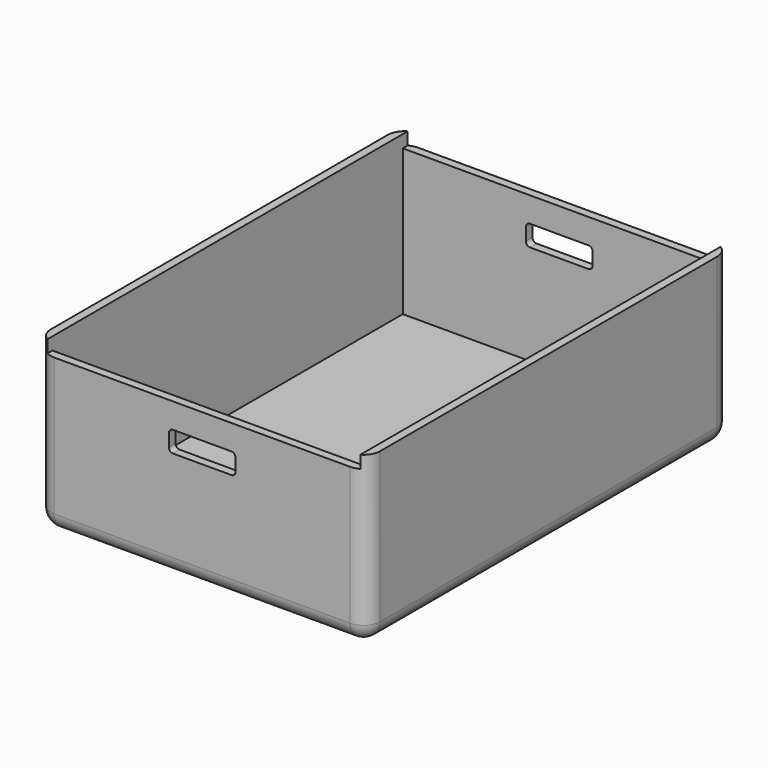
from build123d import *

# Parameters (mm, degrees)
F0_W     = 37.5
F0_H     = 52.5
F1_DEPTH = 1
F0_H_2   = 1
F2_DEPTH = 18.5
F4_DEPTH = 60
F5_DEPTH = 20
F6_R     = 2
F7_R     = 2


with BuildPart() as f1:
    # F0 (on Top) → F1 (new body)
    with BuildSketch(Plane.XY):
        Rectangle(F0_W, F0_H)
    extrude(amount=F1_DEPTH)

    # F0 (on Top) → F2 (join)
    with BuildSketch(Plane.XY):
        with Locations((0, 26.75)):
            Rectangle(F0_W, F0_H_2)
        with Locations((0, -26.75)):
            Rectangle(F0_W, F0_H_2)
    extrude(amount=F2_DEPTH)

    # F3 (on face) → F4 (cut)
    with BuildSketch(Plane.XZ.offset(27.25)):
        with BuildLine():
            ThreePointArc((4, 15), (3.8535533906, 15.3535533906), (3.5, 15.5))
            Line((3.5, 15.5), (-3.5, 15.5))
            ThreePointArc((-3.5, 15.5), (-3.8535533906, 15.3535533906), (-4, 15))
            Line((-4, 15), (-4, 13.5))
            ThreePointArc((-4, 13.5), (-3.8535533906, 13.1464466094), (-3.5, 13))
            Line((-3.5, 13), (3.5, 13))
            ThreePointArc((3.5, 13), (3.8535533906, 13.1464466094), (4, 13.5))
            Line((4, 13.5), (4, 15))
        make_face()
    extrude(amount=-F4_DEPTH, mode=Mode.SUBTRACT)

    # F0 (on Top) → F5 (join)
    with BuildSketch(Plane.XY):
        Polygon((-18.75, -26.25), (-18.75, 26.25), (-18.75, 27.25), (-19.75, 27.25), (-19.75, -27.25), (-18.75, -27.25), align=None)
        Polygon((18.75, 27.25), (18.75, 26.25), (18.75, -26.25), (18.75, -27.25), (19.75, -27.25), (19.75, 27.25), align=None)
    extrude(amount=F5_DEPTH)

    # F6
    f6_edges = [f1.edges().sort_by_distance(p)[0] for p in [
        (19.75, -27.25, 10),
        (-19.75, -27.25, 10),
        (19.75, 27.25, 10),
        (-19.75, 27.25, 10),
    ]]
    fillet(f6_edges, radius=F6_R)

    # F7
    f7_edges = [f1.edges().sort_by_distance(p)[0] for p in [
        (-19.75, 0, 0),
        (-19.164214, -26.664214, 0),
        (0, -27.25, 0),
        (19.164214, -26.664214, 0),
        (19.75, 0, 0),
        (19.164214, 26.664214, 0),
        (0, 27.25, 0),
        (-19.164214, 26.664214, 0),
    ]]
    fillet(f7_edges, radius=F7_R)


solid = f1.part
